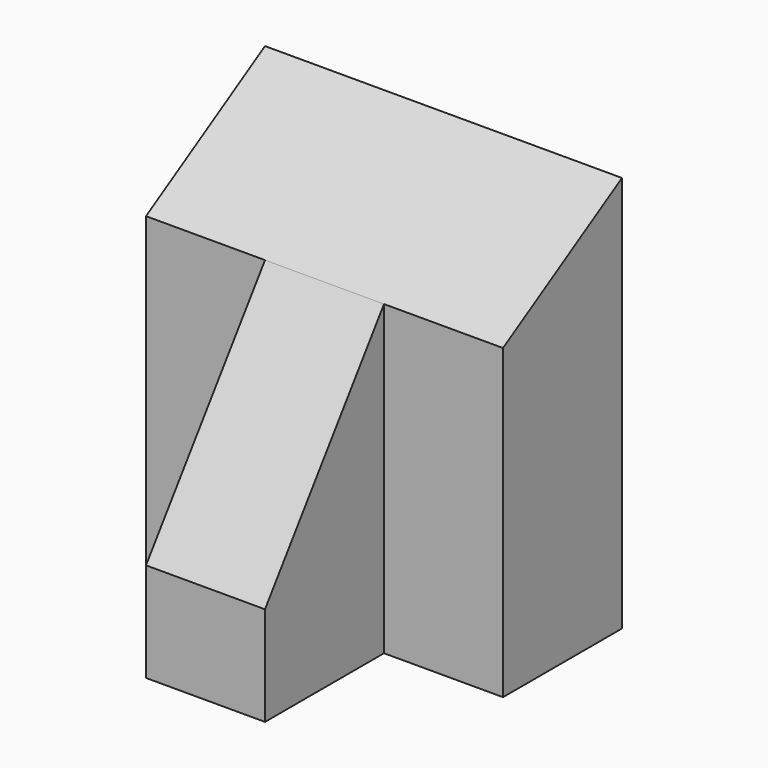
from build123d import *

# Parameters (mm, degrees)
F1_DEPTH = 18
F2_DEPTH = 6


with BuildPart() as f1:
    # F0 (on Right) → F1 (new body, symmetric)
    with BuildSketch(Plane.YZ):
        Polygon((15, 31), (15, 0), (30, 0), (30, 40), align=None)
    extrude(amount=F1_DEPTH, both=True)

    # F0 (on Right) → F2 (join, symmetric)
    with BuildSketch(Plane.YZ):
        Polygon((0, 10), (0, 0), (15, 0), (15, 31), align=None)
    extrude(amount=F2_DEPTH, both=True)


solid = f1.part
